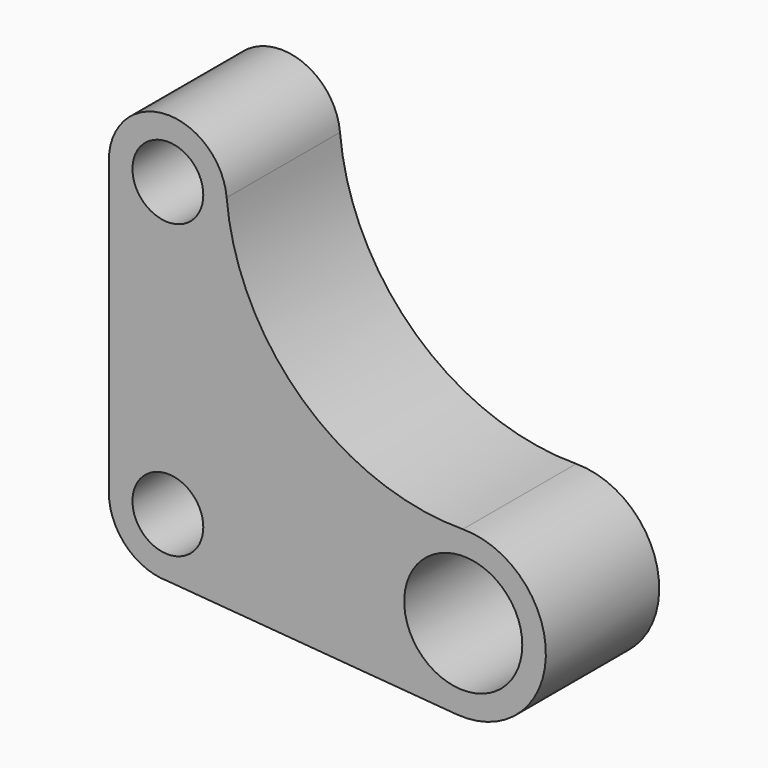
from build123d import *

# Parameters (mm, degrees)
F0_R     = 3
F0_R_2   = 5
F1_DEPTH = 12


with BuildPart() as f1:
    # F0 (on Front) → F1 (new body)
    with BuildSketch(Plane.XZ):
        with BuildLine():
            Line((-5, 24.77), (-5, 0))
            ThreePointArc((-5, 0), (-3.535534, -3.535534), (0, -5))
            Line((0, -5), (24.455898, -6.977234))
            ThreePointArc((24.455898, -6.977234), (32.014914, -0.266785), (24.988984, 6.999931))
            ThreePointArc((24.988984, 6.999931), (11.436354, 12.210538), (4.980073, 25.215947))
            ThreePointArc((4.980073, 25.215947), (-0.223196, 29.765016), (-5, 24.77))
        make_face()
        Circle(F0_R, mode=Mode.SUBTRACT)
        with Locations((25.02, 0)):
            Circle(F0_R_2, mode=Mode.SUBTRACT)
        with Locations((0, 24.77)):
            Circle(F0_R, mode=Mode.SUBTRACT)
    extrude(amount=F1_DEPTH)


solid = f1.part
